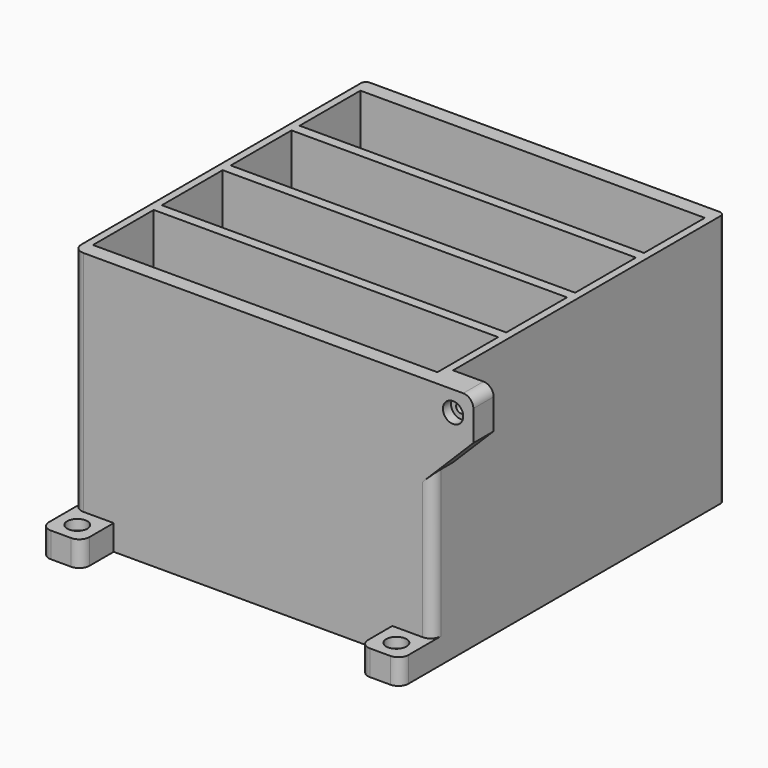
from build123d import *

# Parameters (mm, degrees)
SKETCH_W        = 142
SKETCH_H        = 144
PAD_DEPTH       = 100
SKETCH001_W     = 136
SKETCH001_H     = 30
POCKET_DEPTH    = 95
SKETCH002_W     = 10
SKETCH002_H     = 16
PAD001_DEPTH    = 16
SKETCH003_R     = 4
POCKET001_DEPTH = 4
SKETCH004_R     = 2
POCKET002_DEPTH = 6
SKETCH005_W     = 16
SKETCH005_H     = 10
PAD002_DEPTH    = 16
SKETCH006_R     = 4
POCKET003_DEPTH = 4
SKETCH007_R     = 2
POCKET004_DEPTH = 6
POCKET005_DEPTH = 22
SKETCH009_W     = 10
SKETCH009_H     = 16
PAD003_DEPTH    = 16
SKETCH010_R     = 4
POCKET006_DEPTH = 4
SKETCH011_R     = 2
POCKET007_DEPTH = 6
CHAMFER_SIZE    = 15.98
CHAMFER001_SIZE = 15.98
FILLET_R        = 4
FILLET001_R     = 4
FILLET002_R     = 4
FILLET003_R     = 4
FILLET004_R     = 2
FILLET005_R     = 2
FILLET006_R     = 4


with BuildPart() as part:
    # Sketch → Pad (new body)
    with BuildSketch(Plane.XY):
        with Locations((71, 72)):
            Rectangle(SKETCH_W, SKETCH_H)
    extrude(amount=PAD_DEPTH)

    # Sketch001 (on Face6 of Pad) → Pocket (cut)
    with BuildSketch(Plane.XY.offset(100)):
        with Locations((71, 123)):
            Rectangle(SKETCH001_W, SKETCH001_H)
        with Locations((71, 89)):
            Rectangle(SKETCH001_W, SKETCH001_H)
        with Locations((71, 55)):
            Rectangle(SKETCH001_W, SKETCH001_H)
        with Locations((71, 21)):
            Rectangle(SKETCH001_W, SKETCH001_H)
    extrude(amount=-POCKET_DEPTH, mode=Mode.SUBTRACT)

    # Sketch002 (on Face1 of Pocket) → Pad001 (join)
    with BuildSketch(Plane(origin=(0, 144, 0), x_dir=(-1, 0, 0), z_dir=(0, 1, 0))):
        with Locations((-5, 32)):
            Rectangle(SKETCH002_W, SKETCH002_H)
    extrude(amount=PAD001_DEPTH)

    # Sketch003 (on Face10 of Pad001) → Pocket001 (cut)
    with BuildSketch(Plane(origin=(0, 0, 0), x_dir=(0, -1, 0), z_dir=(-1, 0, 0))):
        with Locations((-152, 32)):
            Circle(SKETCH003_R)
    extrude(amount=-POCKET001_DEPTH, mode=Mode.SUBTRACT)

    # Sketch004 (on Face33 of Pocket001) → Pocket002 (cut)
    with BuildSketch(Plane(origin=(4, 0, 0), x_dir=(0, -1, 0), z_dir=(-1, 0, 0))):
        with Locations((-152, 32)):
            Circle(SKETCH004_R)
    extrude(amount=-POCKET002_DEPTH, mode=Mode.SUBTRACT)

    # Sketch005 (on Face4 of Pocket002) → Pad002 (join)
    with BuildSketch(Plane.XZ):
        with Locations((8, 5)):
            Rectangle(SKETCH005_W, SKETCH005_H)
        with Locations((134, 5)):
            Rectangle(SKETCH005_W, SKETCH005_H)
    extrude(amount=PAD002_DEPTH)

    # Sketch006 (on Face38 of Pad002) → Pocket003 (cut)
    with BuildSketch(Plane.XY.offset(10)):
        with Locations((8, -8)):
            Circle(SKETCH006_R)
        with Locations((134, -8)):
            Circle(SKETCH006_R)
    extrude(amount=-POCKET003_DEPTH, mode=Mode.SUBTRACT)

    # Sketch007 (on Face48 of Pocket003) → Pocket004 (cut)
    with BuildSketch(Plane.XY.offset(6)):
        with Locations((8, -8)):
            Circle(SKETCH007_R)
        with Locations((134, -8)):
            Circle(SKETCH007_R)
    extrude(amount=-POCKET004_DEPTH, mode=Mode.SUBTRACT)

    # Sketch008 (on Face5 of Pocket004) → Pocket005 (cut)
    with BuildSketch(Plane(origin=(0, 0, 0), x_dir=(0, -1, 0), z_dir=(-1, 0, 0))):
        Polygon((-144, 6), (-144, 0), (-138, 0), align=None)
    extrude(amount=-POCKET005_DEPTH, mode=Mode.SUBTRACT)

    # Sketch009 (on Face3 of Pocket005) → Pad003 (join)
    with BuildSketch(Plane.YZ.offset(142)):
        with Locations((5, 92)):
            Rectangle(SKETCH009_W, SKETCH009_H)
    extrude(amount=PAD003_DEPTH)

    # Sketch010 (on Face42 of Pad003) → Pocket006 (cut)
    with BuildSketch(Plane.XZ):
        with Locations((150, 92)):
            Circle(SKETCH010_R)
    extrude(amount=-POCKET006_DEPTH, mode=Mode.SUBTRACT)

    # Sketch011 (on Face59 of Pocket006) → Pocket007 (cut)
    with BuildSketch(Plane.XZ.offset(-4)):
        with Locations((150, 92)):
            Circle(SKETCH011_R)
    extrude(amount=-POCKET007_DEPTH, mode=Mode.SUBTRACT)

    # Chamfer
    chamfer_edges = [part.edges().sort_by_distance(p)[0] for p in [
        (5, 144, 24),
    ]]
    chamfer(chamfer_edges, length=CHAMFER_SIZE)

    # Chamfer001
    chamfer001_edges = [part.edges().sort_by_distance(p)[0] for p in [
        (142, 5, 84),
    ]]
    chamfer(chamfer001_edges, length=CHAMFER001_SIZE)

    # Fillet
    fillet_edges = [part.edges().sort_by_distance(p)[0] for p in [
        (0, 0, 55),
    ]]
    fillet(fillet_edges, radius=FILLET_R)

    # Fillet001
    fillet001_edges = [part.edges().sort_by_distance(p)[0] for p in [
        (142, -16, 5),
        (126, -16, 5),
        (16, -16, 5),
        (0, -16, 5),
    ]]
    fillet(fillet001_edges, radius=FILLET001_R)

    # Fillet002
    fillet002_edges = [part.edges().sort_by_distance(p)[0] for p in [
        (142, 0, 39.01),
    ]]
    fillet(fillet002_edges, radius=FILLET002_R)

    # Fillet003
    fillet003_edges = [part.edges().sort_by_distance(p)[0] for p in [
        (158, 5, 100),
    ]]
    fillet(fillet003_edges, radius=FILLET003_R)

    # Fillet004
    fillet004_edges = [part.edges().sort_by_distance(p)[0] for p in [
        (0, 144, 70),
    ]]
    fillet(fillet004_edges, radius=FILLET004_R)

    # Fillet005
    fillet005_edges = [part.edges().sort_by_distance(p)[0] for p in [
        (142, 144, 50),
    ]]
    fillet(fillet005_edges, radius=FILLET005_R)

    # Fillet006
    fillet006_edges = [part.edges().sort_by_distance(p)[0] for p in [
        (5, 160, 40),
    ]]
    fillet(fillet006_edges, radius=FILLET006_R)


solid = part.part
